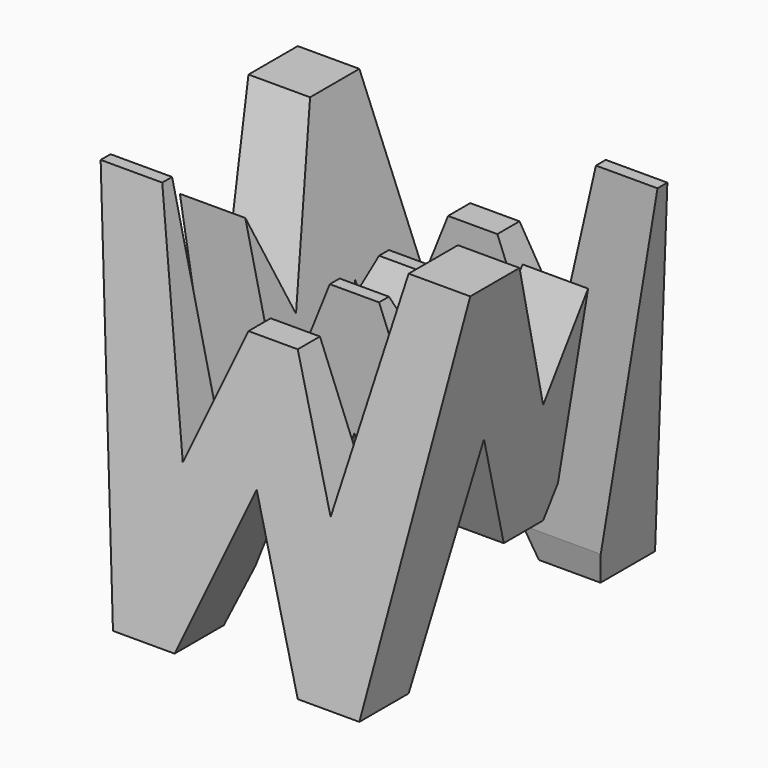
from build123d import *

# Parameters (mm, degrees)
F0_W     = 38.1
F0_H     = 38.1
F1_DEPTH = 38.1
F5_DEPTH = 38.1
F7_DEPTH = 38.1
F8_W     = 25.4
F8_H     = 7.62
F9_DEPTH = 38.1


with BuildPart() as f1:
    # F0 (on Front) → F1 (new body)
    with BuildSketch(Plane.XZ):
        with Locations((19.05, 19.05)):
            Rectangle(F0_W, F0_H)
    extrude(amount=F1_DEPTH)

    # F4 (on Front) → F5 (cut)
    with BuildSketch(Plane.XZ):
        Polygon((6.35, 0), (0, 38.1), (0, 0), align=None)
        Polygon((31.75, 38.1), (6.35, 38.1), (11.43, 15.875), (16.51, 28.575), (21.59, 28.575), (26.67, 15.875), align=None)
        Polygon((19.05, 15.875), (12.7, 0), (25.4, 0), align=None)
        Polygon((38.1, 0), (38.1, 38.1), (31.75, 0), align=None)
    extrude(amount=F5_DEPTH, mode=Mode.SUBTRACT)

    # F6 (on offset) → F7 (cut)
    with BuildSketch(Plane.YZ.offset(38.1)):
        Polygon((-38.1, 38.1), (-38.1, 0), (-31.75, 38.1), align=None)
        Polygon((-19.05, 22.225), (-12.7, 38.1), (-25.4, 38.1), align=None)
        Polygon((-31.75, 0), (-7.027086, 0), (-11.43, 22.225), (-16.51, 10.050542), (-21.59, 10.050542), (-26.67, 22.225), align=None)
        Polygon((-6.35, 38.1), (0, 0), (0, 38.1), align=None)
    extrude(amount=-F7_DEPTH, mode=Mode.SUBTRACT)

    # F8 (on offset) → F9 (cut)
    with BuildSketch(Plane.XY.offset(38.1)):
        with Locations((12.7, -26.67)):
            Rectangle(F8_W, F8_H)
        with Locations((25.4, -11.43)):
            Rectangle(F8_W, F8_H)
    extrude(amount=-F9_DEPTH, mode=Mode.SUBTRACT)


solid = f1.part
